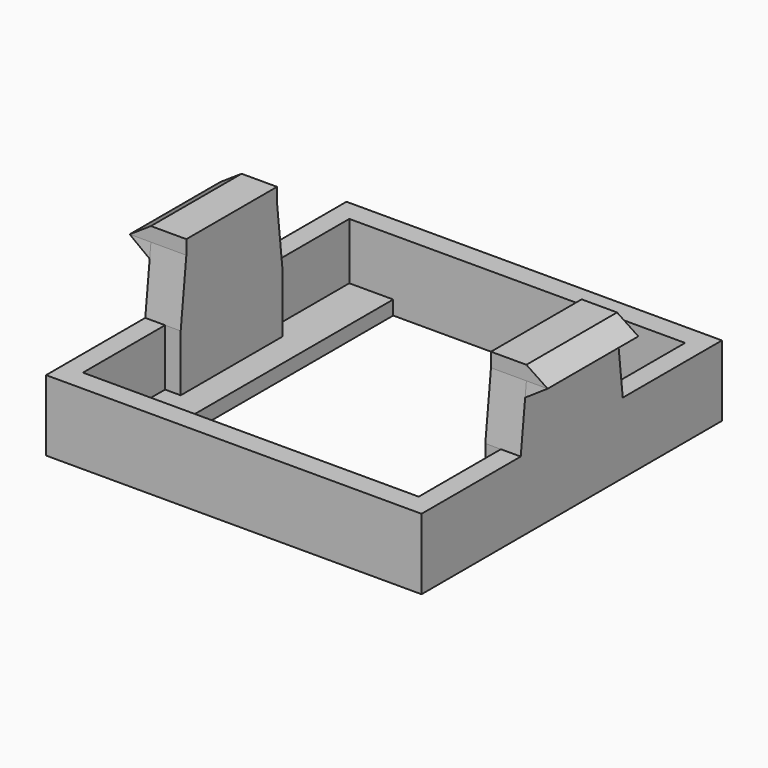
from build123d import *

# Parameters (mm, degrees)
F0_W          = 26.5
F0_H          = 26.5
F0_W_2        = 23.7
F0_H_2        = 23.5
F1_DEPTH      = 5
F2_W          = 26.5
F2_H          = 26.5
F2_W_2        = 17.5
F2_H_2        = 23.5
F3_DEPTH      = 1
F5_DEPTH      = 2.5
F6_W          = 8
F6_H          = 1
F7_DEPTH      = 1.5
F9_DEPTH      = 25
F9_DEPTH_BACK = 25


with BuildPart() as f1:
    # F0 (on Top) → F1 (new body)
    with BuildSketch(Plane.XY):
        Rectangle(F0_W, F0_H)
        Rectangle(F0_W_2, F0_H_2, mode=Mode.SUBTRACT)
    extrude(amount=F1_DEPTH)

    # F2 (on Top) → F3 (join)
    with BuildSketch(Plane.XY):
        Rectangle(F2_W, F2_H)
        Rectangle(F2_W_2, F2_H_2, mode=Mode.SUBTRACT)
    extrude(amount=F3_DEPTH)

    # F4 (on face) → F5 (join)
    with BuildSketch(Plane(origin=(-13.25, 0, 0), x_dir=(0, -1, 0), z_dir=(-1, 0, 0))):
        Polygon((4.5, 5), (0, 5), (-4.5, 5), (-4.5, 0), (4.5, 0), align=None)
        Polygon((-4.5, 5), (0, 5), (0, 9.5), (-4, 9.5), align=None)
        Polygon((0, 9.5), (0, 5), (4.5, 5), (4, 9.5), align=None)
        Polygon((-4, 9.5), (0, 9.5), (4, 9.5), (4, 10.5), (-4, 10.5), align=None)
    extrude(amount=-F5_DEPTH)

    # F6 (on face) → F7 (join)
    with BuildSketch(Plane(origin=(-13.25, 0, 0), x_dir=(0, -1, 0), z_dir=(-1, 0, 0))):
        Polygon((-4, 9.5), (-4.110432, 8.506116), (4.110432, 8.506116), (4, 9.5), align=None)
        with Locations((0, 10)):
            Rectangle(F6_W, F6_H)
    extrude(amount=F7_DEPTH)

    # F8 (on Front) → F9 (cut, two sides)
    with BuildSketch(Plane.XZ) as f9_sk:
        Polygon((-14.75, 8.506116), (-13.25, 8.506116), (-14.75, 9.5), align=None)
        Polygon((-14.75, 10.5), (-14.75, 9.5), (-13.25, 10.5), align=None)
    extrude(amount=F9_DEPTH, mode=Mode.SUBTRACT)
    extrude(f9_sk.sketch, amount=-F9_DEPTH_BACK, mode=Mode.SUBTRACT)

    # F10: F1 across plane


with BuildPart() as f1_1:
    add(f1.part)
    add(f1.part.mirror(Plane.YZ))


solid = f1_1.part
